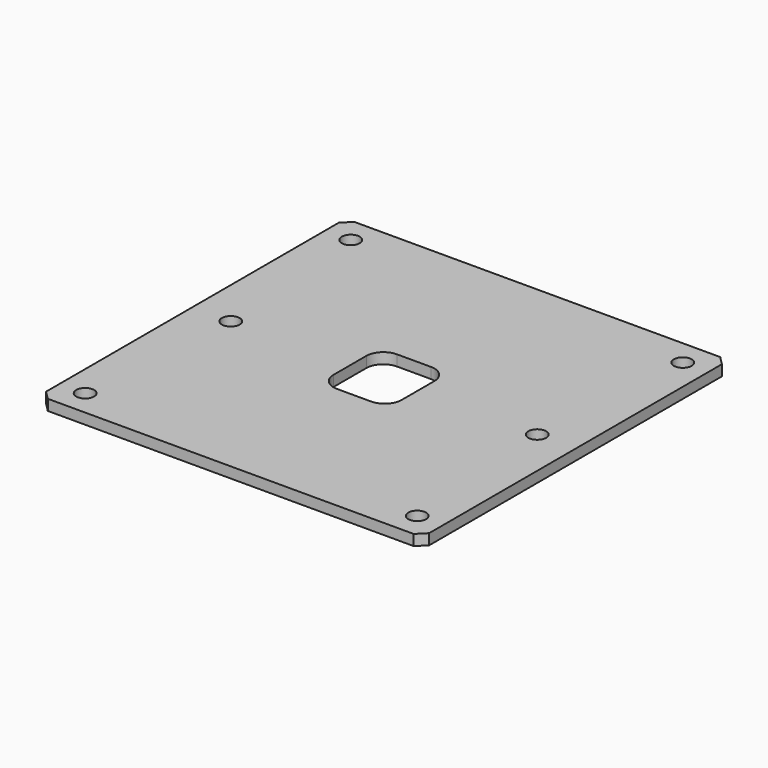
from build123d import *

# Parameters (mm, degrees)
F0_R     = 1.3335
F1_DEPTH = 1.6


with BuildPart() as f1:
    # F0 (on Top) → F1 (new body)
    with BuildSketch(Plane.XY):
        Polygon((55.87, 0), (1.28, 0), (0, -1.28), (0, -55.87), (1.28, -57.15), (55.87, -57.15), (57.15, -55.87), (57.15, -1.28), align=None)
        with Locations((3.81, -53.34)):
            Circle(F0_R, mode=Mode.SUBTRACT)
        with Locations((53.34, -53.34)):
            Circle(F0_R, mode=Mode.SUBTRACT)
        with Locations((5.715, -28.575)):
            Circle(F0_R, mode=Mode.SUBTRACT)
        with Locations((3.81, -3.81)):
            Circle(F0_R, mode=Mode.SUBTRACT)
        with BuildLine():
            ThreePointArc((23.495, -25.527), (24.238949, -23.730949), (26.035, -22.987))
            Line((26.035, -22.987), (31.115, -22.987))
            ThreePointArc((31.115, -22.987), (32.911051, -23.730949), (33.655, -25.527))
            Line((33.655, -25.527), (33.655, -31.623))
            ThreePointArc((33.655, -31.623), (32.911051, -33.419051), (31.115, -34.163))
            Line((31.115, -34.163), (26.035, -34.163))
            ThreePointArc((26.035, -34.163), (24.238949, -33.419051), (23.495, -31.623))
            Line((23.495, -31.623), (23.495, -25.527))
        make_face(mode=Mode.SUBTRACT)
        with Locations((51.435, -28.575)):
            Circle(F0_R, mode=Mode.SUBTRACT)
        with Locations((53.34, -3.81)):
            Circle(F0_R, mode=Mode.SUBTRACT)
    extrude(amount=F1_DEPTH)


solid = f1.part
